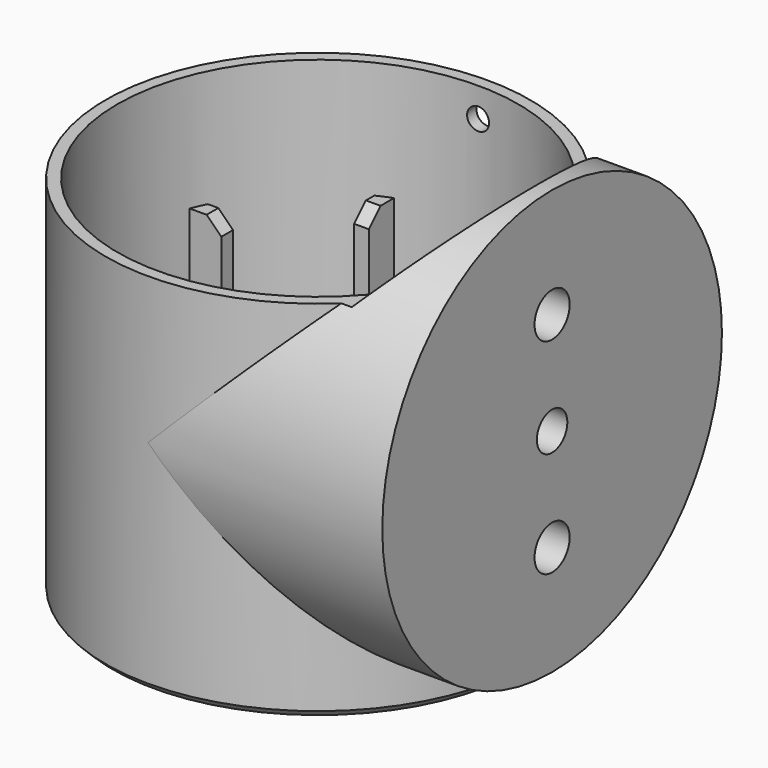
from build123d import *

# Parameters (mm, degrees)
CYLINDER003_R           = 1.5
CYLINDER003_DEPTH       = 6
CYLINDER003_ROLL_ANGLE  = 90
CYLINDER002_R           = 30
CYLINDER002_DEPTH       = 20
CYLINDER001_R           = 29
CYLINDER001_DEPTH       = 32
CYLINDER001_PITCH_ANGLE = 90
CYLINDER_R              = 29
CYLINDER_DEPTH          = 60
SKETCH_R                = 27.4
POCKET_DEPTH            = 58
SKETCH002_R             = 2.6
SKETCH002_R_2           = 3
POCKET002_DEPTH         = 6
SKETCH001_R             = 1.7
POCKET003_DEPTH         = 5
SKETCH003_W             = 2
SKETCH003_H             = 4.5
SKETCH003_W_2           = 4.5
SKETCH003_H_2           = 2
PAD_DEPTH               = 34
CHAMFER_SIZE            = 2
CHAMFER001_SIZE         = 1


with BuildPart() as cylinder003:
    # Cylinder003 → Cylinder003 (new body)
    with BuildSketch(Plane.XY):
        Circle(CYLINDER003_R)
    extrude(amount=CYLINDER003_DEPTH)


with BuildPart() as cylinder003_1:
    # Cylinder003 roll: moved
    add(cylinder003.part.rotate(Axis((0, 0, 0), (1, 0, 0)), CYLINDER003_ROLL_ANGLE))


with BuildPart() as cylinder003_2:
    # Cylinder003 placement: moved
    add(cylinder003_1.part.moved(Location((0, 30, 46))))


with BuildPart() as cylinder002:
    # Cylinder002 → Cylinder002 (new body)
    with BuildSketch(Plane.XY.offset(50)):
        Circle(CYLINDER002_R)
    extrude(amount=CYLINDER002_DEPTH)


with BuildPart() as cylinder001:
    # Cylinder001 → Cylinder001 (new body)
    with BuildSketch(Plane.XY):
        Circle(CYLINDER001_R)
    extrude(amount=CYLINDER001_DEPTH)


with BuildPart() as cylinder001_1:
    # Cylinder001 pitch: moved
    add(cylinder001.part.rotate(Axis((0, 0, 0), (0, 1, 0)), CYLINDER001_PITCH_ANGLE))


with BuildPart() as cylinder001_2:
    # Cylinder001 placement: moved
    add(cylinder001_1.part.moved(Location((0, 0, 30))))


with BuildPart() as cut:
    # Cylinder → Cylinder (new body)
    with BuildSketch(Plane.XY):
        Circle(CYLINDER_R)
    extrude(amount=CYLINDER_DEPTH)

    # Fusion: union Cylinder001
    add(cylinder001_2.part)

    # Sketch → Pocket (cut)
    with BuildSketch(Plane.XY.offset(60)):
        Circle(SKETCH_R)
    extrude(amount=-POCKET_DEPTH, mode=Mode.SUBTRACT)

    # Sketch002 → Pocket002 (cut)
    with BuildSketch(Plane.YZ.offset(32)):
        with Locations((0, 30)):
            Circle(SKETCH002_R)
        with Locations((0, 44)):
            Circle(SKETCH002_R_2)
        with Locations((0, 16)):
            Circle(SKETCH002_R_2)
    extrude(amount=-POCKET002_DEPTH, mode=Mode.SUBTRACT)

    # Sketch001 → Pocket003 (cut)
    with BuildSketch(Plane.XY.offset(2)):
        with Locations((-15.5, 15.5)):
            Circle(SKETCH001_R)
        with Locations((15.5, 15.5)):
            Circle(SKETCH001_R)
        with Locations((-15.5, -15.5)):
            Circle(SKETCH001_R)
        with Locations((15.5, -15.5)):
            Circle(SKETCH001_R)
    extrude(amount=-POCKET003_DEPTH, mode=Mode.SUBTRACT)

    # Cut: cut Cylinder002
    add(cylinder002.part, mode=Mode.SUBTRACT)


with BuildPart() as cut001:
    # Sketch003 → Pad (new body)
    with BuildSketch(Plane.XY):
        with Locations((-11, 23.45)):
            Rectangle(SKETCH003_W, SKETCH003_H)
        with Locations((11, 23.45)):
            Rectangle(SKETCH003_W, SKETCH003_H)
        with Locations((-11, -23.45)):
            Rectangle(SKETCH003_W, SKETCH003_H)
        with Locations((11, -23.45)):
            Rectangle(SKETCH003_W, SKETCH003_H)
        with Locations((-23.45, 11)):
            Rectangle(SKETCH003_W_2, SKETCH003_H_2)
        with Locations((-23.45, -11)):
            Rectangle(SKETCH003_W_2, SKETCH003_H_2)
        with Locations((23.45, 11)):
            Rectangle(SKETCH003_W_2, SKETCH003_H_2)
        with Locations((23.45, -11)):
            Rectangle(SKETCH003_W_2, SKETCH003_H_2)
    extrude(amount=PAD_DEPTH)

    # Chamfer
    chamfer_edges = [cut001.edges().sort_by_distance(p)[0] for p in [
        (-21.2, -11, 34),
        (-11, -21.2, 34),
        (-21.2, 11, 34),
        (-11, 21.2, 34),
        (11, -21.2, 34),
        (21.2, -11, 34),
        (21.2, 11, 34),
        (11, 21.2, 34),
    ]]
    chamfer(chamfer_edges, length=CHAMFER_SIZE)

    # Fusion001: union Cut
    add(cut.part)

    # Chamfer001
    chamfer001_edges = [cut001.edges().sort_by_distance(p)[0] for p in [
        (-29, 0, 0),
    ]]
    chamfer(chamfer001_edges, length=CHAMFER001_SIZE)

    # Cut001: cut Cylinder003
    add(cylinder003_2.part, mode=Mode.SUBTRACT)


solid = cut001.part
